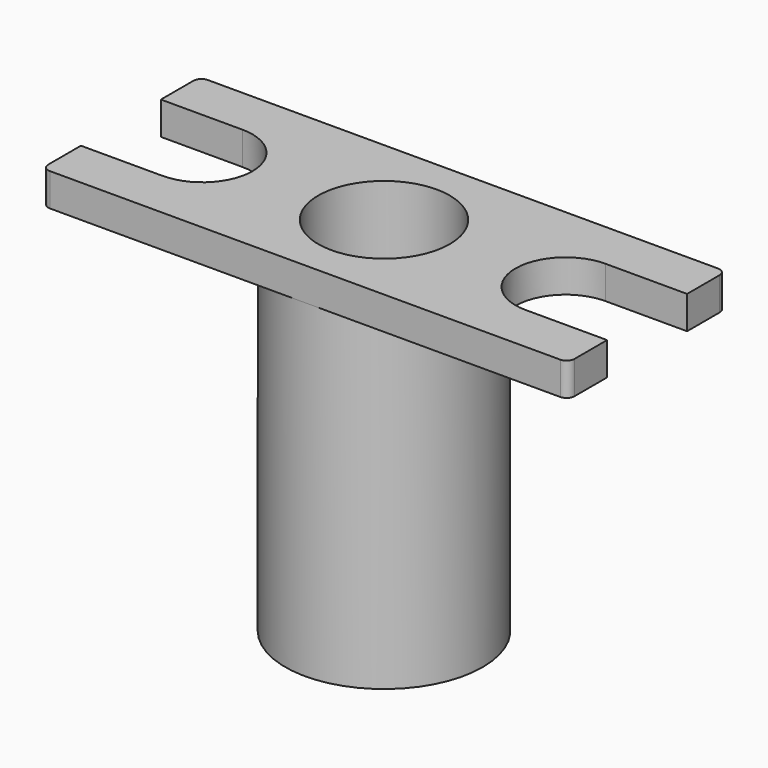
from build123d import *

# Parameters (mm, degrees)
F0_W      = 101.6
F0_H      = 6.35
F1_DEPTH  = 19.05
F2_R      = 19.05
F3_DEPTH  = 69.85
F4_R      = 12.7
F5_DEPTH  = 63.5
F6_R      = 4.7625
F7_DEPTH  = 6.35
F9_DEPTH  = 25.4
F11_DEPTH = 25.4
F12_R     = 1.524


with BuildPart() as f1:
    # F0 (on Front) → F1 (new body, symmetric)
    with BuildSketch(Plane.XZ):
        Rectangle(F0_W, F0_H)
    extrude(amount=F1_DEPTH, both=True)

    # F2 (on face) → F3 (join)
    with BuildSketch(Plane.XY.offset(3.175)):
        Circle(F2_R)
    extrude(amount=-F3_DEPTH)

    # F4 (on face) → F5 (cut)
    with BuildSketch(Plane.XY.offset(3.175)):
        Circle(F4_R)
    extrude(amount=-F5_DEPTH, mode=Mode.SUBTRACT)

    # F6 (on face) → F7 (cut)
    with BuildSketch(Plane(origin=(0, 0, -66.675), x_dir=(1, 0, 0), z_dir=(0, 0, -1))):
        Circle(F6_R)
    extrude(amount=-F7_DEPTH, mode=Mode.SUBTRACT)

    # F8 (on face) → F9 (cut)
    with BuildSketch(Plane.XY.offset(3.175)):
        with BuildLine():
            Line((50.8, -9.652), (50.8, 9.652))
            Line((50.8, 9.652), (35.052, 9.652))
            ThreePointArc((35.052, 9.652), (25.4, 0), (35.052, -9.652))
            Line((35.052, -9.652), (50.8, -9.652))
        make_face()
    extrude(amount=-F9_DEPTH, mode=Mode.SUBTRACT)

    # F10 (on face) → F11 (cut)
    with BuildSketch(Plane.XY.offset(3.175)):
        with BuildLine():
            Line((-35.052, 9.652), (-50.8, 9.652))
            Line((-50.8, 9.652), (-50.8, -9.652))
            Line((-50.8, -9.652), (-35.052, -9.652))
            ThreePointArc((-35.052, -9.652), (-25.4, 0), (-35.052, 9.652))
        make_face()
    extrude(amount=-F11_DEPTH, mode=Mode.SUBTRACT)

    # F12
    f12_edges = [f1.edges().sort_by_distance(p)[0] for p in [
        (50.8, -19.05, 0),
        (50.8, 19.05, 0),
        (-50.8, -19.05, 0),
        (-50.8, 19.05, 0),
    ]]
    fillet(f12_edges, radius=F12_R)


solid = f1.part
